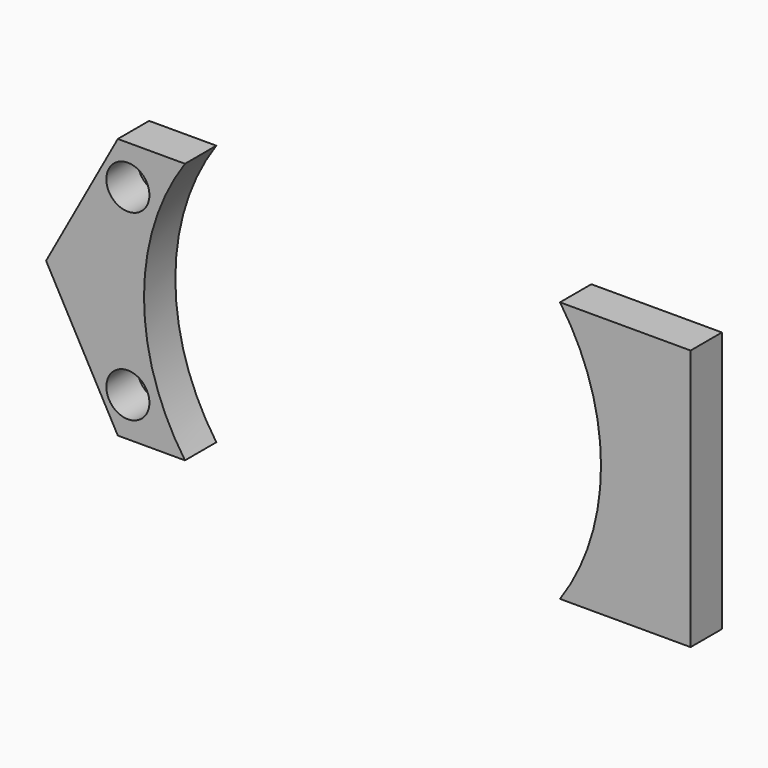
from build123d import *

# Parameters (mm, degrees)
F1_DEPTH = 6
F2_D     = 6.6


with BuildPart() as f1:
    # F0 (on Front) → F1 (new body)
    with BuildSketch(Plane.XZ):
        with BuildLine():
            ThreePointArc((-28.6950568554, -20), (-34.9722436227, 0), (-28.6950568554, 20))
            Line((-28.6950568554, 20), (-34.6132597741, 20))
            ThreePointArc((-34.6132597741, 20), (-39.9722436227, 0), (-34.6132597741, -20))
            Line((-34.6132597741, -20), (-28.6950568554, -20))
        make_face()
        with BuildLine():
            ThreePointArc((-34.6132597741, -20), (-39.9722436227, 0), (-34.6132597741, 20))
            Line((-34.6132597741, 20), (-38.9861218113, 20))
            Line((-38.9861218113, 20), (-49.9722436227, 0))
            Line((-49.9722436227, 0), (-38.9861218113, -20))
            Line((-38.9861218113, -20), (-34.6132597741, -20))
        make_face()
    extrude(amount=F1_DEPTH)

    # F2 (through all)
    with Locations(Plane(origin=(0, 0, 0), x_dir=(1, 0, 0), z_dir=(0, 1, 0))):
        with Locations((-37.4422316131, 14), (-37.4422316131, -14)):
            Hole(F2_D / 2)


with BuildPart() as f1b:
    # F0 (on Front) → F1, piece 2 (new body)
    with BuildSketch(Plane.XZ):
        with BuildLine():
            Line((34.6687725287, 20), (28.75056961, 20))
            ThreePointArc((28.75056961, 20), (35.0277563773, 0), (28.75056961, -20))
            Line((28.75056961, -20), (34.6687725287, -20))
            ThreePointArc((34.6687725287, -20), (40.0277563773, 0), (34.6687725287, 20))
        make_face()
        with BuildLine():
            Line((48.75056961, 20), (34.6687725287, 20))
            ThreePointArc((34.6687725287, 20), (40.0277563773, 0), (34.6687725287, -20))
            Line((34.6687725287, -20), (48.75056961, -20))
            Line((48.75056961, -20), (48.75056961, 20))
        make_face()
    extrude(amount=F1_DEPTH)


solid = Compound([f1.part, f1b.part])
